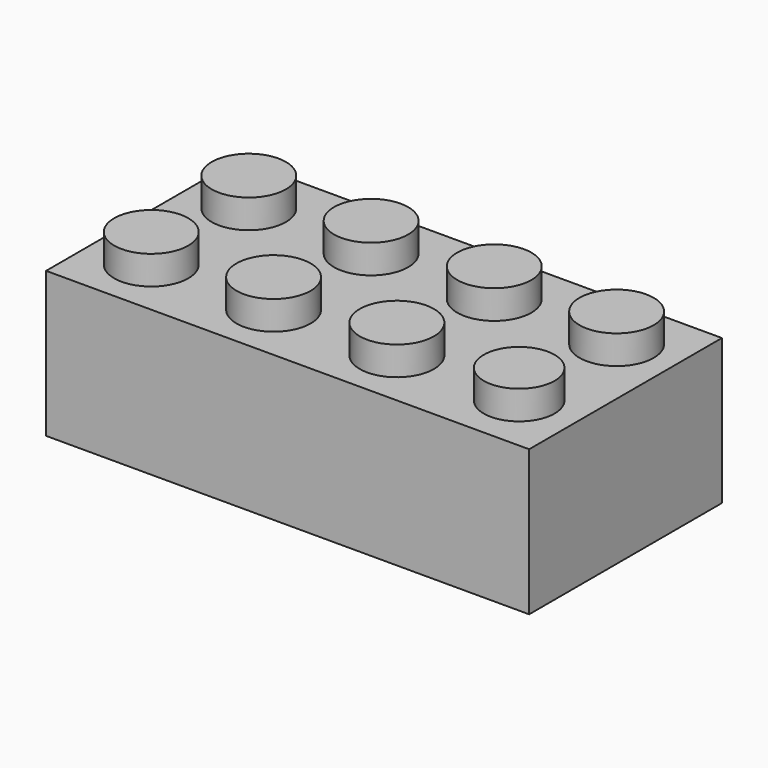
from build123d import *

# Parameters (mm, degrees)
F0_W     = 31.75
F0_H     = 15.8369
F1_DEPTH = 9.5504
F2_W     = 29.3624
F2_H     = 13.4493
F3_DEPTH = 8.1026
F4_R     = 2.4384
F4_R_2   = 2.325555
F5_DEPTH = 1.8923
F6_R     = 2.9464
F6_R_2   = 2.4765
F7_DEPTH = 8.1026


with BuildPart() as f1:
    # F0 (on Top) → F1 (new body)
    with BuildSketch(Plane.XY):
        Rectangle(F0_W, F0_H)
    extrude(amount=F1_DEPTH)

    # F2 (on face) → F3 (cut)
    with BuildSketch(Plane(origin=(0, 0, 0), x_dir=(1, 0, 0), z_dir=(0, 0, -1))):
        Rectangle(F2_W, F2_H)
    extrude(amount=-F3_DEPTH, mode=Mode.SUBTRACT)

    # F4 (on face) → F5 (join)
    with BuildSketch(Plane.XY.offset(9.5504)):
        with Locations((12.08405, 4.00685)):
            Circle(F4_R)
        with Locations((4.04495, 4.00685)):
            Circle(F4_R)
        with Locations((-4.0513, 4.00685)):
            Circle(F4_R)
        with Locations((-12.0904, 4.00685)):
            Circle(F4_R)
        with Locations((-12.0904, -4.00685)):
            Circle(F4_R)
        with Locations((-4.0513, -4.00685)):
            Circle(F4_R)
        with Locations((4.0513, -4.00685)):
            Circle(F4_R)
        with Locations((12.0904, -4.00685)):
            Circle(F4_R_2)
    extrude(amount=F5_DEPTH)

    # F6 (on face) → F7 (join)
    with BuildSketch(Plane(origin=(0, 0, 8.1026), x_dir=(1, 0, 0), z_dir=(0, 0, -1))):
        Circle(F6_R)
        Circle(F6_R_2, mode=Mode.SUBTRACT)
        with Locations((-7.23265, 0)):
            Circle(F6_R)
        with Locations((-7.23265, 0)):
            Circle(F6_R_2, mode=Mode.SUBTRACT)
        with Locations((7.239, 0)):
            Circle(F6_R)
        with Locations((7.239, 0)):
            Circle(F6_R_2, mode=Mode.SUBTRACT)
    extrude(amount=F7_DEPTH)


solid = f1.part
